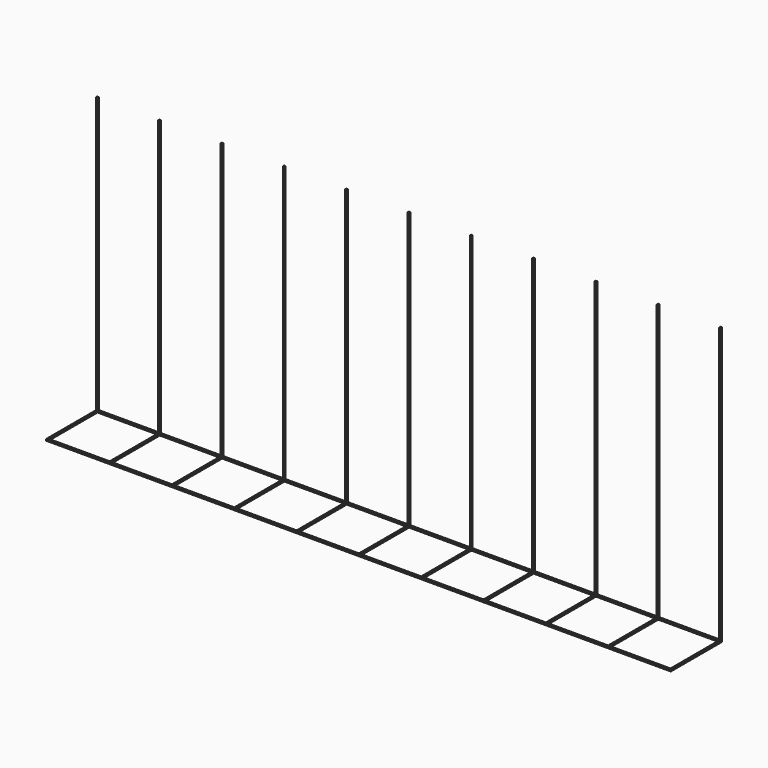
from build123d import *

# Parameters (mm, degrees)
F0_W     = 195.5
F0_H     = 20
F0_W_2   = 19
F0_H_2   = 19
F1_DEPTH = 0.5
F2_W     = 0.5
F2_H     = 0.5
F3_DEPTH = 86.22444


with BuildPart() as f1:
    # F0 (on Top) → F1 (new body)
    with BuildSketch(Plane.XY):
        with Locations((32.803617, 51.525777)):
            Rectangle(F0_W, F0_H)
        with Locations((-54.946383, 51.525777)):
            Rectangle(F0_W_2, F0_H_2, mode=Mode.SUBTRACT)
        with Locations((-35.446383, 51.525777)):
            Rectangle(F0_W_2, F0_H_2, mode=Mode.SUBTRACT)
        with Locations((-15.946383, 51.525777)):
            Rectangle(F0_W_2, F0_H_2, mode=Mode.SUBTRACT)
        with Locations((3.553617, 51.525777)):
            Rectangle(F0_W_2, F0_H_2, mode=Mode.SUBTRACT)
        with Locations((23.053617, 51.525777)):
            Rectangle(F0_W_2, F0_H_2, mode=Mode.SUBTRACT)
        with Locations((42.553617, 51.525777)):
            Rectangle(F0_W_2, F0_H_2, mode=Mode.SUBTRACT)
        with Locations((62.053617, 51.525777)):
            Rectangle(F0_W_2, F0_H_2, mode=Mode.SUBTRACT)
        with Locations((81.553617, 51.525777)):
            Rectangle(F0_W_2, F0_H_2, mode=Mode.SUBTRACT)
        with Locations((101.053617, 51.525777)):
            Rectangle(F0_W_2, F0_H_2, mode=Mode.SUBTRACT)
        with Locations((120.553617, 51.525777)):
            Rectangle(F0_W_2, F0_H_2, mode=Mode.SUBTRACT)
    extrude(amount=F1_DEPTH)

    # F2 (on face) → F3 (join)
    with BuildSketch(Plane.XY.offset(0.5)):
        with Locations((-64.696383, 61.275777)):
            Rectangle(F2_W, F2_H)
        with Locations((-45.196383, 61.275777)):
            Rectangle(F2_W, F2_H)
        with Locations((-25.696383, 61.275777)):
            Rectangle(F2_W, F2_H)
        with Locations((-6.196383, 61.275777)):
            Rectangle(F2_W, F2_H)
        with Locations((13.303617, 61.275777)):
            Rectangle(F2_W, F2_H)
        with Locations((32.803617, 61.275777)):
            Rectangle(F2_W, F2_H)
        with Locations((52.303617, 61.275777)):
            Rectangle(F2_W, F2_H)
        with Locations((71.803617, 61.275777)):
            Rectangle(F2_W, F2_H)
        with Locations((91.303617, 61.275777)):
            Rectangle(F2_W, F2_H)
        with Locations((110.803617, 61.275777)):
            Rectangle(F2_W, F2_H)
        with Locations((130.303617, 61.275777)):
            Rectangle(F2_W, F2_H)
    extrude(amount=F3_DEPTH)


solid = f1.part
